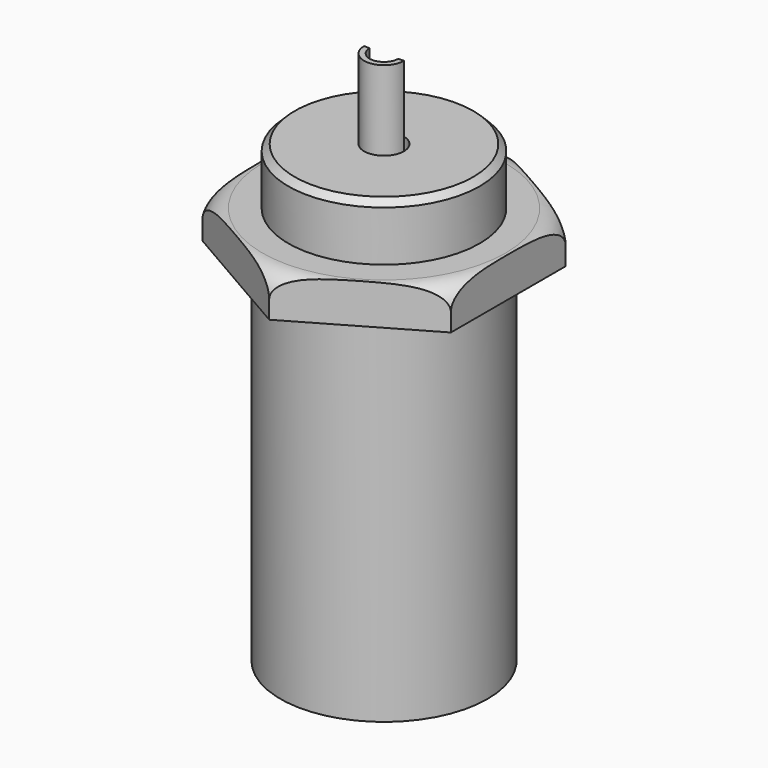
from build123d import *

# Parameters (mm, degrees)
F2_DEPTH  = 1.27
F5_R      = 3.048
F6_DEPTH  = 1.8034
F7_SIZE   = 0.2
F8_R      = 0.635
F9_DEPTH  = 2.54
F11_DEPTH = 3.048
F12_R     = 3.302
F13_DEPTH = 11.43


with BuildPart() as f2:
    # F1 (on Top) → F2 (new body)
    with BuildSketch(Plane.XY):
        Polygon((3.9624, 2.2876927066), (0, 4.5753854133), (-3.9624, 2.2876927066), (-3.9624, -2.2876927066), (0, -4.5753854133), (3.9624, -2.2876927066), align=None)
    extrude(amount=F2_DEPTH)

    # F3 (on Right) → F4 (revolve, cut)
    with BuildSketch(Plane.YZ):
        with BuildLine():
            ThreePointArc((3.8753854133, 1.27), (4.3703601601, 1.0649747468), (4.5753854133, 0.57))
            Line((4.5753854133, 0.57), (4.5753854133, 1.27))
            Line((4.5753854133, 1.27), (3.8753854133, 1.27))
        make_face()
    revolve(axis=Axis((0, 0, -1.1243047193), (0, 0, 1)), mode=Mode.SUBTRACT)

    # F5 (on face) → F6 (join)
    with BuildSketch(Plane.XY.offset(1.27)):
        Circle(F5_R)
    extrude(amount=F6_DEPTH)

    # F7
    f7_edges = [f2.edges().sort_by_distance(p)[0] for p in [
        (-3.048, 0, 3.0734),
    ]]
    chamfer(f7_edges, length=F7_SIZE)

    # F8 (on face) → F9 (join)
    with BuildSketch(Plane.XY.offset(3.0734)):
        Circle(F8_R)
    extrude(amount=F9_DEPTH)

    # F10 (on face) → F11 (cut)
    with BuildSketch(Plane.XY.offset(5.6134)):
        with BuildLine():
            Line((-0.635, 0), (-0.4572, 0))
            ThreePointArc((-0.4572, 0), (0, -0.4572), (0.4572, 0))
            Line((0.4572, 0), (0.635, 0))
            ThreePointArc((0.635, 0), (0, 0.635), (-0.635, 0))
        make_face()
    extrude(amount=-F11_DEPTH, mode=Mode.SUBTRACT)

    # F12 (on face) → F13 (join)
    with BuildSketch(Plane(origin=(0, 0, 0), x_dir=(1, 0, 0), z_dir=(0, 0, -1))):
        Circle(F12_R)
    extrude(amount=F13_DEPTH)


solid = f2.part
